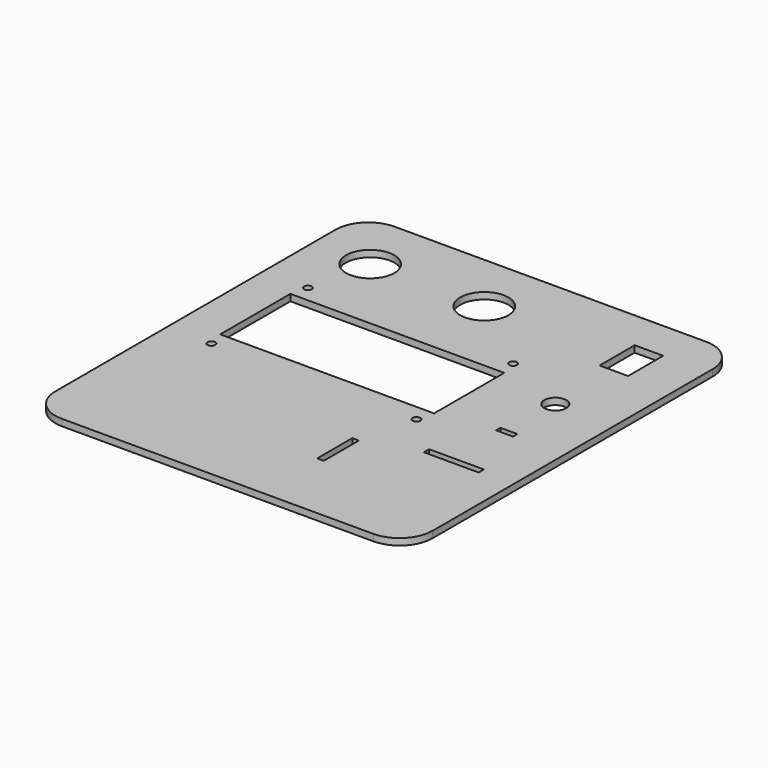
from build123d import *

# Parameters (mm, degrees)
F0_W     = 249
F0_H     = 271
F0_W_2   = 227
F0_H_2   = 249
F1_DEPTH = 3
F2_W     = 97.5
F2_H     = 40
F2_R     = 11
F2_R_2   = 1.75
F2_W_2   = 3
F2_H_2   = 20
F2_W_3   = 13
F2_W_4   = 25
F2_H_3   = 3
F2_R_3   = 5
F2_W_5   = 7.7
F2_H_4   = 2.5
F3_DEPTH = 25
F4_W     = 249
F4_H     = 271
F5_DEPTH = 3


with BuildPart() as f1:
    # F0 (on Top) → F1 (new body)
    with BuildSketch(Plane.XY):
        Rectangle(F0_W, F0_H)
        Rectangle(F0_W_2, F0_H_2, mode=Mode.SUBTRACT)
        Rectangle(F0_W_2, F0_H_2)
    extrude(amount=F1_DEPTH)

    # F2 (on face) → F3 (cut)
    with BuildSketch(Plane.XY.offset(3)):
        with Locations((6.014311, 40.348687)):
            Rectangle(F2_W, F2_H)
        with Locations((-34.873512, 95.984109)):
            Circle(F2_R)
        with Locations((17.168977, 95.984109)):
            Circle(F2_R)
        with Locations((-40.735689, 67.848687)):
            Circle(F2_R_2)
        with Locations((52.764311, 67.848687)):
            Circle(F2_R_2)
        with Locations((52.764311, 12.848687)):
            Circle(F2_R_2)
        with Locations((-40.735689, 12.848687)):
            Circle(F2_R_2)
        with Locations((45.454934, -22.752056)):
            Rectangle(F2_W_2, F2_H_2)
        with Locations((84.206969, 95.984109)):
            Rectangle(F2_W_3, F2_H_2)
        with Locations((83.148815, -3.833046)):
            Rectangle(F2_W_4, F2_H_3)
        with Locations((84.014516, 52.88054)):
            Circle(F2_R_3)
        with Locations((84.000645, 25.185113)):
            Rectangle(F2_W_5, F2_H_4)
    extrude(amount=-F3_DEPTH, mode=Mode.SUBTRACT)

    # F4 (on face) → F5 (cut, through all)
    with BuildSketch(Plane.XY.offset(3)):
        Rectangle(F4_W, F4_H)
        with BuildLine():
            ThreePointArc((-61.096646, 108.972366), (-56.703248, 119.578968), (-46.096646, 123.972366))
            Line((-46.096646, 123.972366), (95.905387, 123.972366))
            ThreePointArc((95.905387, 123.972366), (106.511988, 119.578968), (110.905387, 108.972366))
            Line((110.905387, 108.972366), (110.905387, -50.685034))
            ThreePointArc((110.905387, -50.685034), (106.511988, -61.291636), (95.905387, -65.685034))
            Line((95.905387, -65.685034), (-46.096646, -65.685034))
            ThreePointArc((-46.096646, -65.685034), (-56.703248, -61.291636), (-61.096646, -50.685034))
            Line((-61.096646, -50.685034), (-61.096646, 108.972366))
        make_face(mode=Mode.SUBTRACT)
    extrude(amount=-F5_DEPTH, mode=Mode.SUBTRACT)


solid = f1.part
